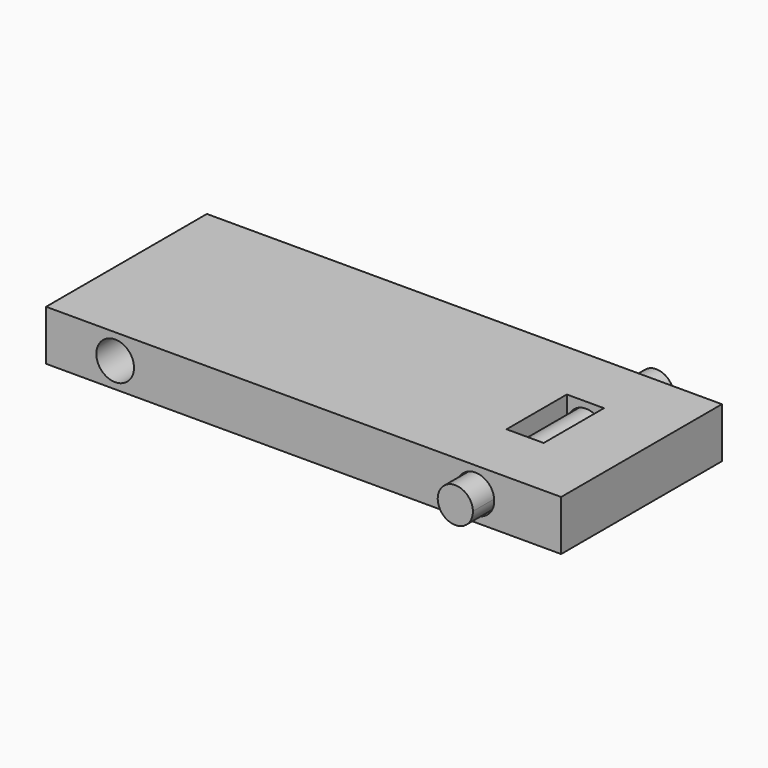
from build123d import *

# Parameters (mm, degrees)
F0_W     = 205
F0_H     = 80
F1_DEPTH = 20
F3_DEPTH = 80
F4_DEPTH = 80
F5_W     = 14.7805176675
F5_H     = 30
F6_DEPTH = 20
F8_DEPTH = 90
F9_DEPTH = 10


with BuildPart() as f1:
    # F0 (on Top) → F1 (new body)
    with BuildSketch(Plane.XY):
        with Locations((-102.5, 40)):
            Rectangle(F0_W, F0_H)
    extrude(amount=F1_DEPTH)

    # F2 (on face) → F3 (cut)
    with BuildSketch(Plane(origin=(0, 80, 0), x_dir=(-1, 0, 0), z_dir=(0, 1, 0))):
        with BuildLine():
            ThreePointArc((41.614908427, 10), (41.6138713052, 10.1247226994), (41.6107602265, 10.2494109048))
            ThreePointArc((41.6107602265, 10.2494109048), (39.3292836635, 15.3907597696), (34.114908427, 17.5))
            Line((34.114908427, 17.5), (34.114908427, 2.5))
            ThreePointArc((34.114908427, 2.5), (39.4182092859, 4.6966991411), (41.614908427, 10))
        make_face()
        with BuildLine():
            ThreePointArc((26.6190566275, 9.7505890952), (28.9005331905, 4.6092402304), (34.114908427, 2.5))
            Line((34.114908427, 2.5), (34.114908427, 17.5))
            ThreePointArc((34.114908427, 17.5), (28.9005331905, 15.3907597696), (26.6190566275, 10.2494109048))
            Line((26.6190566275, 10.2494109048), (26.6190566275, 9.7505890952))
        make_face()
    extrude(amount=-F3_DEPTH, mode=Mode.SUBTRACT)

    # F2 (on face) → F4 (cut)
    with BuildSketch(Plane(origin=(0, 80, 0), x_dir=(-1, 0, 0), z_dir=(0, 1, 0))):
        with BuildLine():
            Line((177.5, 17.5), (177.5, 2.5))
            ThreePointArc((177.5, 2.5), (182.8033008589, 4.6966991411), (185, 10))
            ThreePointArc((185, 10), (182.8033008589, 15.3033008589), (177.5, 17.5))
        make_face()
        with BuildLine():
            ThreePointArc((177.5, 17.5), (170, 10), (177.5, 2.5))
            Line((177.5, 2.5), (177.5, 17.5))
        make_face()
    extrude(amount=-F4_DEPTH, mode=Mode.SUBTRACT)

    # F5 (on face) → F6 (cut)
    with BuildSketch(Plane.XY.offset(20)):
        with Locations((-34.3386624008, 40)):
            Rectangle(F5_W, F5_H)
    extrude(amount=-F6_DEPTH, mode=Mode.SUBTRACT)


with BuildPart() as f8:
    # F7 (on face) → F8 (new body)
    with BuildSketch(Plane(origin=(0, 80, 0), x_dir=(-1, 0, 0), z_dir=(0, 1, 0))):
        with BuildLine():
            Line((27.1179505076, 10.2411133052), (41.1160145469, 10.0082975996))
            ThreePointArc((41.1160145469, 10.0082975996), (41.116740528, 10.0664995138), (41.1169825272, 10.1247054524))
            ThreePointArc((41.1169825272, 10.1247054524), (34.1751884659, 17.1244634531), (27.1179505076, 10.2411133052))
        make_face()
        with BuildLine():
            ThreePointArc((27.1179505076, 10.2411133052), (34.0005746744, 3.1256734328), (41.1160145469, 10.0082975996))
            Line((41.1160145469, 10.0082975996), (27.1179505076, 10.2411133052))
        make_face()
    extrude(amount=-F8_DEPTH)

    # F9 (add): a face of the model
    f9_faces = [f8.faces().sort_by_distance(p)[0] for p in [
        (-34.1169825272, 80, 10.1247054524),
    ]]
    extrude(f9_faces, amount=F9_DEPTH)


solid = Compound([f1.part, f8.part])
